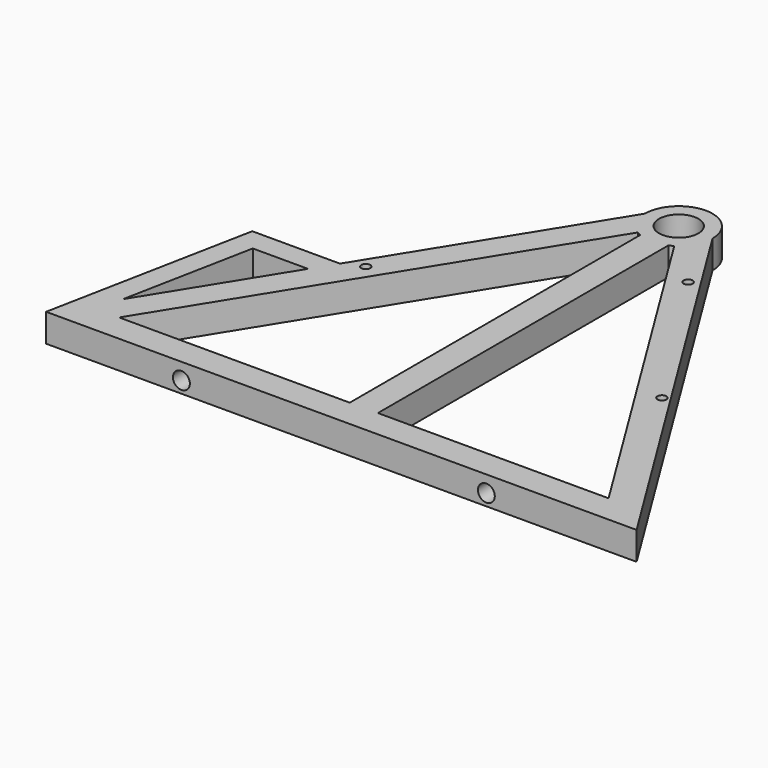
from build123d import *

# Parameters (mm, degrees)
F0_R     = 7
F1_DEPTH = 10
F3_D     = 6
F3_DEPTH = 12
F3_TIP   = 1.8025818571
F5_D     = 3.2
F5_DEPTH = 12
F5_TIP   = 0.9613769904


with BuildPart() as f1:
    # F0 (on Top) → F1 (new body)
    with BuildSketch(Plane.XY):
        with BuildLine():
            ThreePointArc((12, 0), (0, 12), (-12, 0))
            Line((-12, 0), (-59.3705538667, -76.4041191398))
            Line((-59.3705538667, -76.4041191398), (-90.5554051491, -76.4041191398))
            Line((-90.5554051491, -76.4041191398), (-105, -150))
            Line((-105, -150), (105, -150))
            Line((105, -150), (12, 0))
        make_face()
        Polygon((-93.0711311838, -130.7598890062), (-83.972927495, -84.4041191398), (-64.3305538667, -84.4041191398), align=None, mode=Mode.SUBTRACT)
        with BuildLine():
            Line((-87.0339471359, -140), (-6.4913960666, -10.0926595656))
            ThreePointArc((-6.4913960666, -10.0926595656), (-5.7601676478, -10.527130125), (-5, -10.9087121146))
            Line((-5, -10.9087121146), (-5, -140))
            Line((-5, -140), (-87.0339471359, -140))
        make_face(mode=Mode.SUBTRACT)
        with BuildLine():
            ThreePointArc((4.9999998882, -10.9087121659), (5.7601675939, -10.5271301545), (6.4913960666, -10.0926595656))
            Line((6.4913960666, -10.0926595656), (87.0339471359, -140))
            Line((87.0339471359, -140), (4.9999998882, -140))
            Line((4.9999998882, -140), (4.9999998882, -10.9087121659))
        make_face(mode=Mode.SUBTRACT)
        Circle(F0_R, mode=Mode.SUBTRACT)
    extrude(amount=F1_DEPTH)

    # F3
    with Locations(Plane.XZ.offset(150)):
        with Locations((-56.8714849651, 4.1602337733), (51.5690222383, 4.1602337733)):
            Hole(F3_D / 2, depth=F3_DEPTH)
            with Locations((0, 0, -(F3_DEPTH + F3_TIP / 2))):  # 118° drill point
                Cone(0, F3_D / 2, F3_TIP, mode=Mode.SUBTRACT)

    # F5
    with Locations(Plane(origin=(0, 0, 0), x_dir=(1, 0, 0), z_dir=(0, 0, -1))):
        with Locations((-52.6564307511, 73.3130574226), (23.0723669739, 24.6802578412), (60.8978777595, 83.5804338496)):
            Hole(F5_D / 2, depth=F5_DEPTH)
            with Locations((0, 0, -(F5_DEPTH + F5_TIP / 2))):  # 118° drill point
                Cone(0, F5_D / 2, F5_TIP, mode=Mode.SUBTRACT)


solid = f1.part
